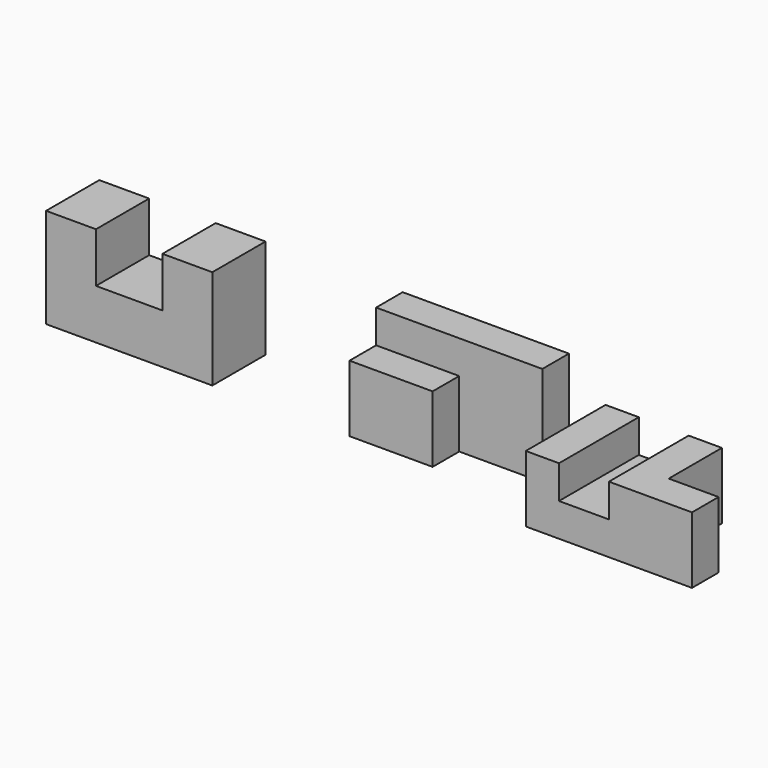
from build123d import *

# Parameters (mm, degrees)
F1_DEPTH  = 101.6
F2_W      = 254
F2_H      = 152.4
F3_DEPTH  = 101.6
F4_W      = 127
F4_H      = 50.8
F5_DEPTH  = 152.4
F6_W      = 127
F6_H      = 50.8
F7_DEPTH  = 50.8
F10_DEPTH = 101.6
F11_DEPTH = 50.8
F12_DEPTH = 101.6


with BuildPart() as f1:
    # F0 (on Front) → F1 (new body)
    with BuildSketch(Plane.XZ):
        Polygon((0, 152.4), (0, 0), (254, 0), (254, 152.4), (177.8, 152.4), (177.8, 76.2), (76.2, 76.2), (76.2, 152.4), align=None)
    extrude(amount=-F1_DEPTH)


with BuildPart() as f3:
    # F2 (on Front) → F3 (new body)
    with BuildSketch(Plane.XZ):
        with Locations((590.574124, 76.2)):
            Rectangle(F2_W, F2_H)
    extrude(amount=-F3_DEPTH)

    # F4 (on face) → F5 (cut)
    with BuildSketch(Plane.XY.offset(152.4)):
        with Locations((654.074124, 25.4)):
            Rectangle(F4_W, F4_H)
    extrude(amount=-F5_DEPTH, mode=Mode.SUBTRACT)

    # F6 (on face) → F7 (cut)
    with BuildSketch(Plane.XZ):
        with Locations((527.074124, 127)):
            Rectangle(F6_W, F6_H)
    extrude(amount=-F7_DEPTH, mode=Mode.SUBTRACT)


with BuildPart() as f10:
    # F9 (on Top) → F10 (new body)
    with BuildSketch(Plane.XY):
        Polygon((951.310462, 101.6), (900.510462, 101.6), (900.510462, 0), (900.510462, -50.8), (1027.510462, -50.8), (1027.510462, 0), (951.310462, 0), align=None)
    extrude(amount=F10_DEPTH)

    # F9 (on Top) → F11 (join)
    with BuildSketch(Plane.XY):
        Polygon((900.510462, 101.6), (824.310462, 101.6), (824.310462, 0), (824.310462, -50.8), (900.510462, -50.8), (900.510462, 0), align=None)
    extrude(amount=F11_DEPTH)

    # F9 (on Top) → F12 (join)
    with BuildSketch(Plane.XY):
        Polygon((773.510462, 101.6), (773.510462, 0), (773.510462, -50.8), (824.310462, -50.8), (824.310462, 0), (824.310462, 101.6), align=None)
    extrude(amount=F12_DEPTH)


solid = Compound([f1.part, f3.part, f10.part])
